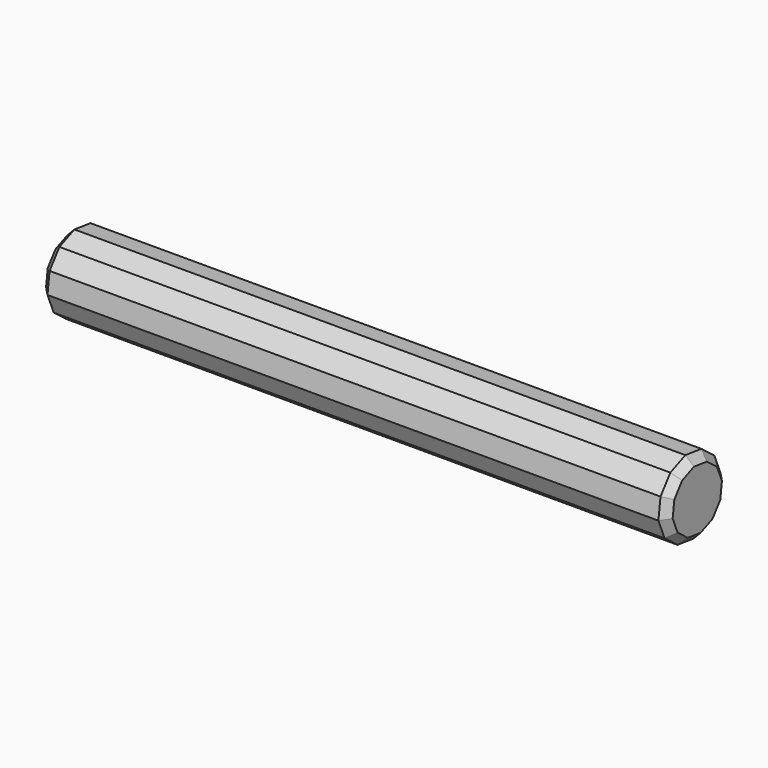
from build123d import *

# Parameters (mm, degrees)
F1_DEPTH = 25.4
F2_SIZE  = 0.635


with BuildPart() as f1:
    # F0 (on Right) → F1 (new body, symmetric)
    with BuildSketch(Plane.YZ):
        Polygon((-0.4185124813, 3.1472960304), (-1.9360904558, 2.5163820749), (-2.9348945562, 1.2112055746), (-3.1472960304, -0.4185124813), (-2.5163820749, -1.9360904558), (-1.2112055746, -2.9348945562), (0.4185124813, -3.1472960304), (1.9360904558, -2.5163820749), (2.9348945562, -1.2112055746), (3.1472960304, 0.4185124813), (2.5163820749, 1.9360904558), (1.2112055746, 2.9348945562), align=None)
    extrude(amount=F1_DEPTH, both=True)

    # F2
    f2_edges = [f1.edges().sort_by_distance(p)[0] for p in [
        (25.4, 1.177301, -2.831839),
        (25.4, 2.435493, -1.863794),
        (25.4, 3.041095, -0.396347),
        (25.4, 2.831839, 1.177301),
        (25.4, 1.863794, 2.435493),
        (25.4, 0.396347, 3.041095),
        (25.4, -1.177301, 2.831839),
        (25.4, -2.435493, 1.863794),
        (25.4, -3.041095, 0.396347),
        (25.4, -2.831839, -1.177301),
        (25.4, -1.863794, -2.435493),
        (25.4, -0.396347, -3.041095),
        (-25.4, 1.177301, -2.831839),
        (-25.4, 2.435493, -1.863794),
        (-25.4, 3.041095, -0.396347),
        (-25.4, 2.831839, 1.177301),
        (-25.4, 1.863794, 2.435493),
        (-25.4, 0.396347, 3.041095),
        (-25.4, -1.177301, 2.831839),
        (-25.4, -2.435493, 1.863794),
        (-25.4, -3.041095, 0.396347),
        (-25.4, -2.831839, -1.177301),
        (-25.4, -1.863794, -2.435493),
        (-25.4, -0.396347, -3.041095),
    ]]
    chamfer(f2_edges, length=F2_SIZE)


solid = f1.part
